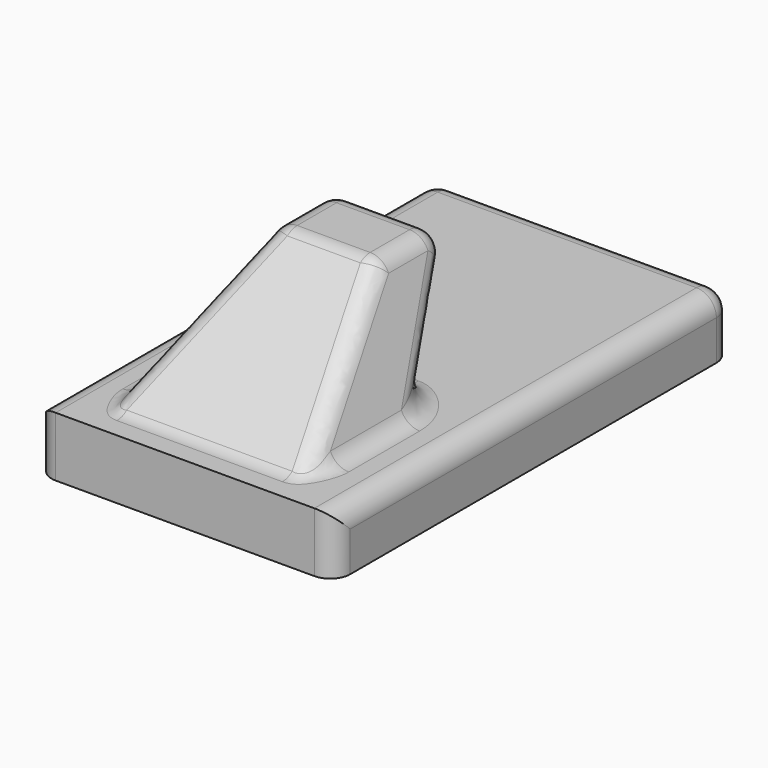
from build123d import *

# Parameters (mm, degrees)
SKETCH_W     = 15
SKETCH_H     = 25
PAD_DEPTH    = 3
SKETCH002_W  = 10
SKETCH002_H  = 7.5
SKETCH003_W  = 5
SKETCH003_H  = 5
SKETCH004_W  = 10
SKETCH004_H  = 20
POCKET_DEPTH = 1
FILLET_R     = 1


with BuildPart() as part:
    # Sketch → Pad (new body)
    with BuildSketch(Plane.XY):
        with Locations((7.5, 12.5)):
            Rectangle(SKETCH_W, SKETCH_H)
    extrude(amount=-PAD_DEPTH)

    # Sketch002 → AdditiveLoft section 0
    with BuildSketch(Plane.XY):
        with Locations((7.455267, 5.075213)):
            Rectangle(SKETCH002_W, SKETCH002_H)
    # Sketch003 → AdditiveLoft section 1
    with BuildSketch(Plane(origin=(0, 2, 6), x_dir=(1, 0, 0), z_dir=(0, 0, 1))):
        with Locations((7.5, 9.5)):
            Rectangle(SKETCH003_W, SKETCH003_H)
    loft()

    # Sketch004 → Pocket (cut)
    with BuildSketch(Plane(origin=(0, 0, -3), x_dir=(1, 0, 0), z_dir=(0, 0, -1))):
        with Locations((7.5, -12.5)):
            Rectangle(SKETCH004_W, SKETCH004_H)
    extrude(amount=-POCKET_DEPTH, mode=Mode.SUBTRACT)

    # Fillet
    fillet_edges = [part.edges().sort_by_distance(p)[0] for p in [
        (3.727634, 5.162606, 3),
        (11.227633, 5.162606, 3),
        (7.5, 9, 6),
        (10, 11.5, 6),
        (5, 11.5, 6),
        (7.5, 14, 6),
        (3.727634, 11.412606, 3),
        (11.227633, 11.412606, 3),
        (2.455267, 5.075213, 0),
        (7.455267, 1.325213, 0),
        (12.455267, 5.075213, 0),
        (7.455267, 8.825213, 0),
        (0, 12.5, 0),
        (7.5, 25, 0),
        (0, 25, -1.5),
        (0, 0, -1.5),
        (15, 12.5, 0),
        (15, 25, -1.5),
        (15, 0, -1.5),
    ]]
    fillet(fillet_edges, radius=FILLET_R)


solid = part.part
